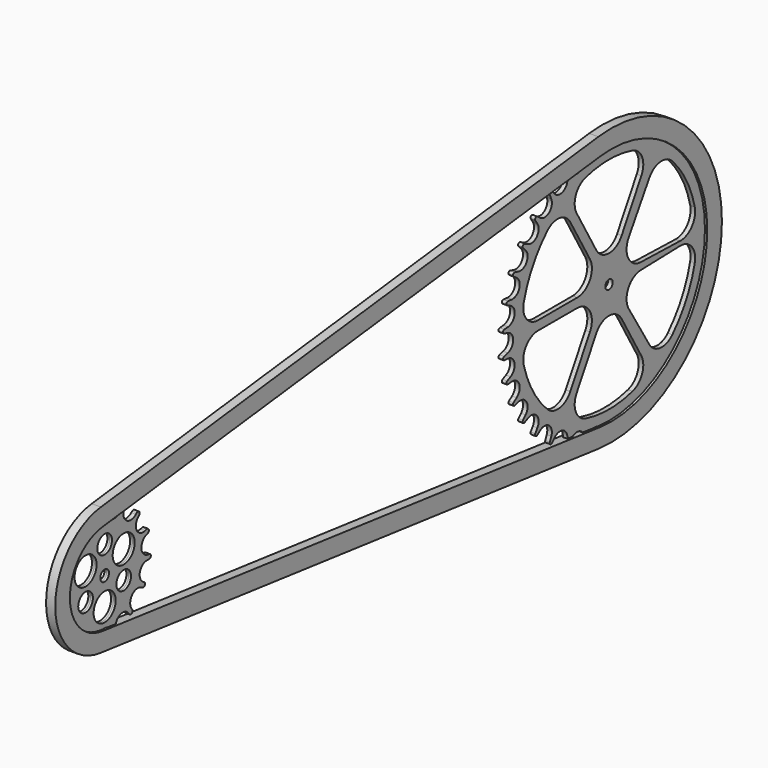
from build123d import *

# Parameters (mm, degrees)
F1_DEPTH = 1.5875
F0_R     = 9.525
F0_R_2   = 6.35
F0_R_3   = 3.7798085678
F2_DEPTH = 1.5875
F4_DEPTH = 3.175


with BuildPart() as f1:
    # F0 (on Right) → F1 (new body, symmetric)
    with BuildSketch(Plane.YZ):
        with BuildLine():
            Line((-59.3944401786, 64.7095088949), (-62.0568209724, 66.6650224888))
            ThreePointArc((-62.0568209724, 66.6650224888), (-63.616238351, 66.564103262), (-63.7876422999, 65.0108524976))
            Line((-63.7876422999, 65.0108524976), (-61.9546477539, 62.2626829427))
            ThreePointArc((-61.9546477539, 62.2626829427), (-62.4552270936, 54.561429043), (-70.0194756005, 53.0310579017))
            Line((-70.0194756005, 53.0310579017), (-72.9889291244, 54.4783487077))
            ThreePointArc((-72.9889291244, 54.4783487077), (-74.5050865883, 54.0998862981), (-74.3956518538, 52.5410433651))
            Line((-74.3956518538, 52.5410433651), (-72.1002808985, 50.1654219548))
            ThreePointArc((-72.1002808985, 50.1654219548), (-71.3143908425, 42.6012859156), (-78.3473206512, 39.7079011322))
            Line((-78.3473206512, 39.7079011322), (-81.5271176116, 40.6029967686))
            ThreePointArc((-81.5271176116, 40.6029967686), (-82.9515914308, 39.9604692678), (-82.5661826493, 38.4460626771))
            Line((-82.5661826493, 38.4460626771), (-79.8842916479, 36.5173933005))
            ThreePointArc((-79.8842916479, 36.5173933005), (-77.6463886486, 29.131482289), (-84.1902710494, 25.040333987))
            Line((-84.1902710494, 25.040333987), (-87.4789411467, 25.3517081969))
            ThreePointArc((-87.4789411467, 25.3517081969), (-88.7653740816, 24.464545554), (-88.1150761675, 23.0436022497))
            Line((-88.1150761675, 23.0436022497), (-85.1312333967, 21.6262147844))
            ThreePointArc((-85.1312333967, 21.6262147844), (-81.7371147842, 14.8207951762), (-87.3045503434, 9.6403088581))
            Line((-87.3045503434, 9.6403088581), (-90.5960809313, 9.3607890976))
            ThreePointArc((-90.5960809313, 9.3607890976), (-91.7038750102, 8.2586277983), (-90.8108244406, 6.9762752995))
            Line((-90.8108244406, 6.9762752995), (-87.6221960476, 6.1131681924))
            ThreePointArc((-87.6221960476, 6.1131681924), (-84.2435517811, 3.8494097252), (-82.9313459114, 0))
            ThreePointArc((-82.9313459114, 0), (-84.2329734447, -3.8680885355), (-87.6199646773, -6.1450675744))
            Line((-87.6199646773, -6.1450675744), (-90.8082786358, -7.0093354782))
            ThreePointArc((-90.8082786358, -7.0093354782), (-91.7008622922, -8.2920130165), (-90.5926670332, -9.3937709386))
            Line((-90.5926670332, -9.3937709386), (-87.3148507701, -9.6184291816))
            ThreePointArc((-87.3148507701, -9.6184291816), (-81.7529599019, -14.8048679569), (-85.1543562506, -21.6066530224))
            Line((-85.1543562506, -21.6066530224), (-88.1397134771, -23.020847895))
            ThreePointArc((-88.1397134771, -23.020847895), (-88.7915309857, -24.4410947702), (-87.5060477743, -25.3296329879))
            Line((-87.5060477743, -25.3296329879), (-84.2170464851, -25.0217768082))
            ThreePointArc((-84.2170464851, -25.0217768082), (-77.6775440819, -29.1199226843), (-79.9233464237, -36.5034356115))
            Line((-79.9233464237, -36.5034356115), (-82.6072989659, -38.4292350971))
            ThreePointArc((-82.6072989659, -38.4292350971), (-82.9943274699, -39.9432285541), (-81.5705417699, -40.5872794304))
            Line((-81.5705417699, -40.5872794304), (-78.3590246988, -39.7237346122))
            ThreePointArc((-78.3590246988, -39.7237346122), (-71.3235236973, -42.6108617062), (-72.1026843331, -50.1756938856))
            Line((-72.1026843331, -50.1756938856), (-74.4242306207, -52.5005537987))
            ThreePointArc((-74.4242306207, -52.5005537987), (-74.5345135707, -54.0593369529), (-73.0185622685, -54.4386243112))
            Line((-73.0185622685, -54.4386243112), (-70.0483216527, -52.9929495234))
            ThreePointArc((-70.0483216527, -52.9929495234), (-62.4849070046, -54.5274364623), (-61.9885183137, -62.2289616081))
            Line((-61.9885183137, -62.2289616081), (-63.8230079824, -64.976133347))
            ThreePointArc((-63.8230079824, -64.976133347), (-63.6524492476, -66.5294771495), (-62.0930870142, -66.6312449057))
            Line((-62.0930870142, -66.6312449057), (-59.4296425378, -64.6771803141))
            ThreePointArc((-59.4296425378, -64.6771803141), (-51.8286187703, -64.9184579242), (-49.9100193945, -72.2773133811))
            Line((-49.9100193945, -72.2773133811), (-51.225721164, -75.3073684567))
            ThreePointArc((-51.225721164, -75.3073684567), (-50.7811460125, -76.8054739889), (-49.2286004047, -76.6277962285))
            Line((-49.2286004047, -76.6277962285), (-46.9559052895, -74.2304723411))
            ThreePointArc((-46.9559052895, -74.2304723411), (-39.3356813174, -73.0089659277), (-36.1643121845, -80.044753668))
            Line((-36.1643121845, -80.044753668), (-36.8730077215, -83.2805832965))
            ThreePointArc((-36.8730077215, -83.2805832965), (-36.1666926903, -84.674529611), (-34.6712732345, -84.2210013295))
            Line((-34.6712732345, -84.2210013295), (-32.8659116239, -81.4546003531))
            ThreePointArc((-32.8659116239, -81.4546003531), (-25.6662392132, -79.0054179633), (-21.2805808977, -85.2182899512))
            Line((-21.2805808977, -85.2182899512), (-21.4457468032, -88.5175360971))
            ThreePointArc((-21.4457468032, -88.5175360971), (-20.5023851215, -89.7633434612), (-19.1116913337, -89.0506457417))
            Line((-19.1116913337, -89.0506457417), (-17.8280775114, -86.0068585509))
            ThreePointArc((-17.8280775114, -86.0068585509), (-11.1252300761, -82.1817144277), (-5.6806431311, -87.6512998144))
            Line((-5.6806431311, -87.6512998144), (-5.2524955715, -90.9268142129))
            ThreePointArc((-5.2524955715, -90.9268142129), (-4.10134446, -91.9836104892), (-2.8607080011, -91.0334586972))
            Line((-2.8607080011, -91.0334586972), (-2.1977759014, -87.8155289571))
            ThreePointArc((-2.1977759014, -87.8155289571), (3.6887866088, -83.0007434985), (9.9720138979, -87.284997463))
            Line((9.9720138979, -87.284997463), (11.0189692492, -90.4414885596))
            ThreePointArc((11.0189692492, -90.4414885596), (12.3404218337, -91.2755930601), (13.3913222458, -90.1190570362))
            Line((13.3913222458, -90.1190570362), (13.4794317718, -86.7947290142))
            ThreePointArc((13.4794317718, -86.7947290142), (18.4142273354, -80.8611226868), (25.4316669934, -84.0728873031))
            Line((25.4316669934, -84.0728873031), (26.9817685272, -86.9899903425))
            ThreePointArc((26.9817685272, -86.9899903425), (28.430511101, -87.5757481472), (29.2589414363, -86.2507310037))
            Line((29.2589414363, -86.2507310037), (28.8000304631, -82.9793848547))
            ThreePointArc((28.8000304631, -82.9793848547), (32.6137955465, -76.399949234), (40.0032960385, -78.1969076857))
            Line((40.0032960385, -78.1969076857), (42.0483117605, -80.7911735943))
            ThreePointArc((42.0483117605, -80.7911735943), (43.5782355723, -81.109450802), (44.157345916, -79.6580382278))
            Line((44.157345916, -79.6580382278), (43.1627324964, -76.4983567732))
            ThreePointArc((43.1627324964, -76.4983567732), (45.6936207194, -69.2076437692), (53.3924449957, -69.7442964186))
            Line((53.3924449957, -69.7442964186), (55.8699957794, -71.9292556909))
            ThreePointArc((55.8699957794, -71.9292556909), (57.4322026864, -71.9676852455), (57.7413227922, -70.4358849938))
            Line((57.7413227922, -70.4358849938), (56.1604866866, -67.5353226147))
            ThreePointArc((56.1604866866, -67.5353226147), (57.4147742776, -60.0346199917), (64.9639453044, -59.1160373844))
            Line((64.9639453044, -59.1160373844), (67.7911329693, -60.8246376346))
            ThreePointArc((67.7911329693, -60.8246376346), (69.3351933492, -60.5841281875), (69.3664610521, -59.021761527))
            Line((69.3664610521, -59.021761527), (67.2941493683, -56.4492473496))
            ThreePointArc((67.2941493683, -56.4492473496), (67.101322191, -48.734151175), (74.4976362705, -46.5308742198))
            Line((74.4976362705, -46.5308742198), (77.5280812788, -47.7982307818))
            ThreePointArc((77.5280812788, -47.7982307818), (79.0047506189, -47.2869432787), (78.7576516618, -45.7439237207))
            Line((78.7576516618, -45.7439237207), (76.2608541582, -43.5809842547))
            ThreePointArc((76.2608541582, -43.5809842547), (74.6989650439, -36.0231807577), (81.5855085229, -32.5395891893))
            Line((81.5855085229, -32.5395891893), (84.83263218, -33.1466253194))
            ThreePointArc((84.83263218, -33.1466253194), (86.1939125448, -32.3792381816), (85.6745675966, -30.9053833463))
            Line((85.6745675966, -30.9053833463), (82.8308880415, -29.2243742757))
            ThreePointArc((82.8308880415, -29.2243742757), (80.0650933325, -22.140296578), (86.0775344721, -17.4836530721))
            Line((86.0775344721, -17.4836530721), (89.3808586984, -17.5024669971))
            ThreePointArc((89.3808586984, -17.5024669971), (90.5836420621, -16.5048300737), (89.8100226246, -15.1470818582))
            Line((89.8100226246, -15.1470818582), (86.7123479664, -13.9995991265))
            ThreePointArc((86.7123479664, -13.9995991265), (82.593957295, -7.4728273684), (87.8169206895, -1.7912303496))
            Line((87.8169206895, -1.7912303496), (91.0702467281, -1.2183651005))
            ThreePointArc((91.0702467281, -1.2183651005), (92.0749974856, -0.021517923), (91.0708062441, 1.1757987441))
            Line((91.0708062441, 1.1757987441), (87.817748318, 1.7501845348))
            ThreePointArc((87.817748318, 1.7501845348), (82.7387374661, 7.4103458369), (86.7310974334, 13.88296811))
            Line((86.7310974334, 13.88296811), (89.8303125254, 15.02628378))
            ThreePointArc((89.8303125254, 15.02628378), (90.605757282, 16.3829903364), (89.4043167154, 17.3822439659))
            Line((89.4043167154, 17.3822439659), (86.100970174, 17.3678726575))
            ThreePointArc((86.100970174, 17.3678726575), (79.9515074636, 22.0309188376), (82.8445384631, 29.1856559355))
            Line((82.8445384631, 29.1856559355), (85.689003411, 30.8653356869))
            ThreePointArc((85.689003411, 30.8653356869), (86.2090371821, 32.3389476195), (84.8481156426, 33.1069709358))
            Line((84.8481156426, 33.1069709358), (81.6007086116, 32.5014525772))
            ThreePointArc((81.6007086116, 32.5014525772), (74.8564682788, 36.0155669083), (76.3193967133, 43.4783825696))
            Line((76.3193967133, 43.4783825696), (78.8191008691, 45.6379621677))
            ThreePointArc((78.8191008691, 45.6379621677), (79.0682747906, 47.18064801), (77.5922944101, 47.6939210049))
            Line((77.5922944101, 47.6939210049), (74.504721137, 46.5195291662))
            ThreePointArc((74.504721137, 46.5195291662), (67.1087426587, 48.723932408), (67.3027446901, 56.4389991294))
            Line((67.3027446901, 56.4389991294), (69.3754480928, 59.0111977049))
            ThreePointArc((69.3754480928, 59.0111977049), (69.3444183077, 60.5735691087), (67.8003945706, 60.8143136829))
            Line((67.8003945706, 60.8143136829), (64.9729467525, 59.1061439771))
            ThreePointArc((64.9729467525, 59.1061439771), (57.4239156951, 60.025876163), (56.1707703271, 67.5267697021))
            Line((56.1707703271, 67.5267697021), (57.7520481125, 70.4270913176))
            ThreePointArc((57.7520481125, 70.4270913176), (57.4431612732, 71.9589386244), (55.8809485322, 71.9207469635))
            Line((55.8809485322, 71.9207469635), (53.4030650513, 69.7361649983))
            ThreePointArc((53.4030650513, 69.7361649983), (45.7041591426, 69.2006847335), (43.1743811801, 76.4917830571))
            Line((43.1743811801, 76.4917830571), (44.2108849021, 79.6283360922))
            ThreePointArc((44.2108849021, 79.6283360922), (43.6327503804, 81.0801376371), (42.102612957, 80.7628889703))
            Line((42.102612957, 80.7628889703), (40.0558537394, 78.1699983801))
            ThreePointArc((40.0558537394, 78.1699983801), (32.6651469377, 76.3780078192), (28.8558056465, 82.9600057018))
            Line((28.8558056465, 82.9600057018), (29.3169156311, 86.2310426153))
            ThreePointArc((29.3169156311, 86.2310426153), (28.4893762066, 87.5566163597), (27.040240193, 86.9718325836))
            Line((27.040240193, 86.9718325836), (25.488178029, 84.0557722367))
            ThreePointArc((25.488178029, 84.0557722367), (18.4685808944, 80.8487257183), (13.5377752268, 86.78564805))
            Line((13.5377752268, 86.78564805), (13.4058408055, 90.0863901205))
            ThreePointArc((13.4058408055, 90.0863901205), (12.3543606844, 91.2423991195), (11.0333264527, 90.4076322001))
            Line((11.0333264527, 90.4076322001), (10.0283839788, 87.2608250037))
            ThreePointArc((10.0283839788, 87.2608250037), (3.7389172031, 82.9857361301), (-2.1406194061, 87.8090986977))
            Line((-2.1406194061, 87.8090986977), (-2.8585062204, 91.0335278611))
            ThreePointArc((-2.8585062204, 91.0335278611), (-4.0991196981, 91.9837096594), (-5.2502963694, 90.9269412258))
            Line((-5.2502963694, 90.9269412258), (-5.6785231521, 87.6514371836))
            ThreePointArc((-5.6785231521, 87.6514371836), (-11.1232423856, 82.181983484), (-17.8259973021, 86.0072897244))
            Line((-17.8259973021, 86.0072897244), (-19.1095375055, 89.0511079604))
            ThreePointArc((-19.1095375055, 89.0511079604), (-20.5002140553, 89.7638393157), (-21.4436058684, 88.5180547685))
            Line((-21.4436058684, 88.5180547685), (-21.2785197601, 85.2188046288))
            ThreePointArc((-21.2785197601, 85.2188046288), (-25.6643283419, 79.0060387164), (-32.8639415133, 81.4553952403))
            Line((-32.8639415133, 81.4553952403), (-34.6692362139, 84.2218398813))
            ThreePointArc((-34.6692362139, 84.2218398813), (-36.1646447, 84.6754043316), (-36.8709934457, 83.2814751009))
            Line((-36.8709934457, 83.2814751009), (-36.1207511298, 80.0644203337))
            ThreePointArc((-36.1207511298, 80.0644203337), (-39.2959482597, 73.0303593096), (-46.915506431, 74.2560120251))
            Line((-46.915506431, 74.2560120251), (-49.1868967254, 76.6545722261))
            ThreePointArc((-49.1868967254, 76.6545722261), (-50.7393454215, 76.8330947652), (-51.1847356891, 75.3352313668))
            Line((-51.1847356891, 75.3352313668), (-49.8706828942, 72.3044608113))
            ThreePointArc((-49.8706828942, 72.3044608113), (-51.7932862472, 64.9466504341), (-59.3944401786, 64.7095088949))
        make_face()
        with BuildLine():
            ThreePointArc((-20.3923824305, -73.4206424571), (-28.7489599018, -65.9903993479), (-27.9921746535, -54.8338687142))
            Line((-27.9921746535, -54.8338687142), (-10.9985226281, -25.4))
            ThreePointArc((-10.9985226281, -25.4), (0, -19.05), (10.9985226281, -25.4))
            Line((10.9985226281, -25.4), (27.9921746535, -54.8338687142))
            ThreePointArc((27.9921746535, -54.8338687142), (28.7489599018, -65.9903993479), (20.3923824305, -73.4206424571))
            ThreePointArc((20.3923824305, -73.4206424571), (0, -76.2), (-20.3923824305, -73.4206424571))
        make_face(mode=Mode.SUBTRACT)
        with BuildLine():
            ThreePointArc((-33.4914359675, -51.6588687142), (-42.7748822903, -57.8925292813), (-53.3879503147, -54.3706424571))
            ThreePointArc((-53.3879503147, -54.3706424571), (-65.9911357684, -38.1), (-73.7803327453, -19.05))
            ThreePointArc((-73.7803327453, -19.05), (-71.5238421921, -8.0978700667), (-61.483610621, -3.175))
            Line((-61.483610621, -3.175), (-27.4963065702, -3.175))
            ThreePointArc((-27.4963065702, -3.175), (-16.4977839421, -9.525), (-16.4977839421, -22.225))
            Line((-16.4977839421, -22.225), (-33.4914359675, -51.6588687142))
        make_face(mode=Mode.SUBTRACT)
        with BuildLine():
            ThreePointArc((54.8541826517, -52.8910072282), (44.3413483419, -56.7016783592), (34.8909783426, -50.7241030506))
            Line((34.8909783426, -50.7241030506), (17.0991232582, -21.7657410579))
            ThreePointArc((17.0991232582, -21.7657410579), (16.7519782752, -9.0704864185), (27.572818809, -2.4222227246))
            Line((27.572818809, -2.4222227246), (61.5474234889, -1.4932052374))
            ThreePointArc((61.5474234889, -1.4932052374), (71.7184664872, -6.1397936654), (74.2734821663, -17.0261518523))
            ThreePointArc((74.2734821663, -17.0261518523), (67.0079131008, -36.2819456738), (54.8541826517, -52.8910072282))
        make_face(mode=Mode.SUBTRACT)
        with BuildLine():
            ThreePointArc((3.175, 0), (0, -3.175), (-3.175, 0))
            ThreePointArc((-3.175, 0), (0, 3.175), (3.175, 0))
        make_face(mode=Mode.SUBTRACT)
        with BuildLine():
            ThreePointArc((-73.7803327453, 19.05), (-65.9911357684, 38.1), (-53.3879503147, 54.3706424571))
            ThreePointArc((-53.3879503147, 54.3706424571), (-42.7748822903, 57.8925292813), (-33.4914359675, 51.6588687142))
            Line((-33.4914359675, 51.6588687142), (-16.4977839421, 22.225))
            ThreePointArc((-16.4977839421, 22.225), (-16.4977839421, 9.525), (-27.4963065702, 3.175))
            Line((-27.4963065702, 3.175), (-61.483610621, 3.175))
            ThreePointArc((-61.483610621, 3.175), (-71.5238421921, 8.0978700667), (-73.7803327453, 19.05))
        make_face(mode=Mode.SUBTRACT)
        with BuildLine():
            ThreePointArc((54.8541826517, 52.8910072282), (67.0079131008, 36.2819456738), (74.2734821663, 17.0261518523))
            ThreePointArc((74.2734821663, 17.0261518523), (71.7184664872, 6.1397936654), (61.5474234889, 1.4932052374))
            Line((61.5474234889, 1.4932052374), (27.572818809, 2.4222227246))
            ThreePointArc((27.572818809, 2.4222227246), (16.7519782752, 9.0704864185), (17.0991232582, 21.7657410579))
            Line((17.0991232582, 21.7657410579), (34.8909783426, 50.7241030506))
            ThreePointArc((34.8909783426, 50.7241030506), (44.3413483419, 56.7016783592), (54.8541826517, 52.8910072282))
        make_face(mode=Mode.SUBTRACT)
        with BuildLine():
            ThreePointArc((-27.9921746535, 54.8338687142), (-28.7489599018, 65.9903993479), (-20.3923824305, 73.4206424571))
            ThreePointArc((-20.3923824305, 73.4206424571), (0, 76.2), (20.3923824305, 73.4206424571))
            ThreePointArc((20.3923824305, 73.4206424571), (28.7489599018, 65.9903993479), (27.9921746535, 54.8338687142))
            Line((27.9921746535, 54.8338687142), (10.9985226281, 25.4))
            ThreePointArc((10.9985226281, 25.4), (0, 19.05), (-10.9985226281, 25.4))
            Line((-10.9985226281, 25.4), (-27.9921746535, 54.8338687142))
        make_face(mode=Mode.SUBTRACT)
    extrude(amount=F1_DEPTH, both=True)


with BuildPart() as f1b:
    # F0 (on Right) → F1, piece 2 (new body, symmetric)
    with BuildSketch(Plane.YZ):
        with BuildLine():
            ThreePointArc((-398.9239925025, -2.4542986379), (-401.3944222988, -1.677421368), (-403.3674451637, 0))
            ThreePointArc((-403.3674451637, 0), (-404.4795287624, 5.9254738684), (-400.2570391012, 10.2287925362))
            Line((-400.2570391012, 10.2287925362), (-399.2624932597, 10.6201324913))
            ThreePointArc((-399.2624932597, 10.6201324913), (-398.3512386179, 12.5136866356), (-400.2014623097, 13.5099820786))
            Line((-400.2014623097, 13.5099820786), (-401.5093063021, 13.1498038794))
            ThreePointArc((-401.5093063021, 13.1498038794), (-408.7652630332, 16.2225876735), (-407.4442970022, 23.990853701))
            Line((-407.4442970022, 23.990853701), (-406.6883434701, 24.7455898311))
            ThreePointArc((-406.6883434701, 24.7455898311), (-406.6260487875, 26.8460782724), (-408.7215421008, 27.0036856754))
            Line((-408.7215421008, 27.0036856754), (-409.5577253642, 26.338053689))
            ThreePointArc((-409.5577253642, 26.338053689), (-417.7514729602, 25.9086375735), (-419.8750812201, 33.8340514949))
            Line((-419.8750812201, 33.8340514949), (-419.5004224207, 34.8350006321))
            ThreePointArc((-419.5004224207, 34.8350006321), (-420.2978590138, 36.7792298367), (-422.2762921178, 36.070897448))
            Line((-422.2762921178, 36.070897448), (-422.760486344, 35.1187166248))
            ThreePointArc((-422.760486344, 35.1187166248), (-429.7403454172, 31.4618770539), (-434.9049504081, 37.4131595726))
            Line((-434.9049504081, 37.4131595726), (-434.9665466043, 38.7682943084))
            ThreePointArc((-434.9665466043, 38.7682943084), (-436.4858304417, 40.2200893838), (-438.0051142791, 38.7682943083))
            Line((-438.0051142791, 38.7682943083), (-438.0699691268, 37.7014943083))
            ThreePointArc((-438.0699691268, 37.7014943083), (-443.2335380598, 31.3250177153), (-450.5442396879, 35.0500062485))
            Line((-450.5442396879, 35.0500062485), (-451.0373941902, 35.9981976997))
            ThreePointArc((-451.0373941902, 35.9981976997), (-453.0158272942, 36.7065300884), (-453.8132638873, 34.7623008839))
            Line((-453.8132638873, 34.7623008839), (-453.3183518592, 33.4992702715))
            ThreePointArc((-453.3183518592, 33.4992702715), (-455.6158486155, 25.9618690625), (-463.4796378182, 26.4635937933))
            Line((-463.4796378182, 26.4635937933), (-464.3092580858, 27.136514725))
            ThreePointArc((-464.3092580858, 27.136514725), (-466.4047513991, 26.978907322), (-466.3424567165, 24.8784188806))
            Line((-466.3424567165, 24.8784188806), (-465.5930661802, 24.1163938053))
            ThreePointArc((-465.5930661802, 24.1163938053), (-464.3095226064, 16.0124186226), (-471.9695427732, 13.072012373))
            Line((-471.9695427732, 13.072012373), (-472.9489376903, 13.5099820786))
            ThreePointArc((-472.9489376903, 13.5099820786), (-474.7991613821, 12.5136866356), (-473.8879067403, 10.6201324913))
            Line((-473.8879067403, 10.6201324913), (-472.8933608988, 10.2287925362))
            ThreePointArc((-472.8933608988, 10.2287925362), (-468.424601836, 3.3475070236), (-474.2264074975, -2.4542986379))
            Line((-474.2264074975, -2.4542986379), (-475.2805842779, -2.6303091685))
            ThreePointArc((-475.2805842779, -2.6303091685), (-476.5656178633, -4.2930241182), (-474.9629674684, -5.6522312516))
            Line((-474.9629674684, -5.6522312516), (-473.8962575734, -5.5954653403))
            ThreePointArc((-473.8962575734, -5.5954653403), (-467.2394120708, -9.811780827), (-469.8110714216, -17.260101209))
            Line((-469.8110714216, -17.260101209), (-470.9538544303, -17.9910124476))
            ThreePointArc((-470.9538544303, -17.9910124476), (-471.451503928, -20.0326483841), (-469.4345705928, -20.6224892451))
            Line((-469.4345705928, -20.6224892451), (-468.4782672683, -20.1452551907))
            ThreePointArc((-468.4782672683, -20.1452551907), (-460.3742920856, -21.4287987645), (-459.94487597, -29.6225463605))
            Line((-459.94487597, -29.6225463605), (-460.5194566033, -30.523726413))
            ThreePointArc((-460.5194566033, -30.523726413), (-460.1436738943, -32.5912659351), (-458.0612037158, -32.3097516804))
            Line((-458.0612037158, -32.3097516804), (-457.2148431337, -31.2496299852))
            ThreePointArc((-457.2148431337, -31.2496299852), (-449.6695851725, -29.410470629), (-445.9875838965, -36.248327855))
            Line((-445.9875838965, -36.248327855), (-446.2090820792, -37.5866562148))
            ThreePointArc((-446.2090820792, -37.5866562148), (-445.0248434076, -39.3226029561), (-443.2369143984, -38.2184099577))
            Line((-443.2369143984, -38.2184099577), (-442.951676593, -37.1884061783))
            ThreePointArc((-442.951676593, -37.1884061783), (-436.5752, -32.0248372452), (-430.198723407, -37.1884061783))
            Line((-430.198723407, -37.1884061783), (-429.9134856016, -38.2184099577))
            ThreePointArc((-429.9134856016, -38.2184099577), (-429.207855952, -39.1487916859), (-428.0506077372, -39.3046760403))
            ThreePointArc((-428.0506077372, -39.3046760403), (-427.1640939323, -38.6599470003), (-426.9413179208, -37.5866562148))
            Line((-426.9413179208, -37.5866562148), (-427.1628161035, -36.248327855))
            ThreePointArc((-427.1628161035, -36.248327855), (-423.3484113339, -29.353313382), (-415.7607792297, -31.479047933))
            Line((-415.7607792297, -31.479047933), (-415.0891962842, -32.3097516804))
            ThreePointArc((-415.0891962842, -32.3097516804), (-413.0067261057, -32.5912659351), (-412.6309433967, -30.523726413))
            Line((-412.6309433967, -30.523726413), (-413.20552403, -29.6225463605))
            ThreePointArc((-413.20552403, -29.6225463605), (-412.7761079144, -21.4287987645), (-404.6721327317, -20.1452551907))
            Line((-404.6721327317, -20.1452551907), (-403.7158294072, -20.6224892451))
            ThreePointArc((-403.7158294072, -20.6224892451), (-401.698896072, -20.0326483841), (-402.1965455697, -17.9910124476))
            Line((-402.1965455697, -17.9910124476), (-403.0928981684, -17.4099406899))
            ThreePointArc((-403.0928981684, -17.4099406899), (-406.0001112468, -10.0860741942), (-399.5415822533, -5.571839866))
            Line((-399.5415822533, -5.571839866), (-398.1874325316, -5.6522312516))
            ThreePointArc((-398.1874325316, -5.6522312516), (-396.5847821367, -4.2930241182), (-397.8698157221, -2.6303091685))
            Line((-397.8698157221, -2.6303091685), (-398.9239925025, -2.4542986379))
        make_face()
        with Locations((-436.5752, -19.05)):
            Circle(F0_R, mode=Mode.SUBTRACT)
        with Locations((-453.0729839421, -9.525)):
            Circle(F0_R_2, mode=Mode.SUBTRACT)
        with Locations((-420.0774160579, -9.525)):
            Circle(F0_R_2, mode=Mode.SUBTRACT)
        with Locations((-436.5752, 0)):
            Circle(F0_R_3, mode=Mode.SUBTRACT)
        with Locations((-453.0729839421, 9.525)):
            Circle(F0_R, mode=Mode.SUBTRACT)
        with BuildLine():
            ThreePointArc((-410.5524160579, 9.525), (-413.3422239671, 2.7898079092), (-420.0774160579, 0))
            ThreePointArc((-420.0774160579, 0), (-426.8126081487, 16.2601920908), (-410.5524160579, 9.525))
        make_face(mode=Mode.SUBTRACT)
        with Locations((-436.5752, 19.05)):
            Circle(F0_R_2, mode=Mode.SUBTRACT)
    extrude(amount=F1_DEPTH, both=True)


with BuildPart() as f2:
    # F0 (on Right) → F2 (new body, symmetric)
    with BuildSketch(Plane.YZ):
        with BuildLine():
            Line((-59.3944401786, 64.7095088949), (-62.0568209724, 66.6650224888))
            ThreePointArc((-62.0568209724, 66.6650224888), (-63.616238351, 66.564103262), (-63.7876422999, 65.0108524976))
            Line((-63.7876422999, 65.0108524976), (-61.9546477539, 62.2626829427))
            ThreePointArc((-61.9546477539, 62.2626829427), (-62.4552270936, 54.561429043), (-70.0194756005, 53.0310579017))
            Line((-70.0194756005, 53.0310579017), (-72.9889291244, 54.4783487077))
            ThreePointArc((-72.9889291244, 54.4783487077), (-74.5050865883, 54.0998862981), (-74.3956518538, 52.5410433651))
            Line((-74.3956518538, 52.5410433651), (-72.1002808985, 50.1654219548))
            ThreePointArc((-72.1002808985, 50.1654219548), (-71.3143908425, 42.6012859156), (-78.3473206512, 39.7079011322))
            Line((-78.3473206512, 39.7079011322), (-81.5271176116, 40.6029967686))
            ThreePointArc((-81.5271176116, 40.6029967686), (-82.9515914308, 39.9604692678), (-82.5661826493, 38.4460626771))
            Line((-82.5661826493, 38.4460626771), (-79.8842916479, 36.5173933005))
            ThreePointArc((-79.8842916479, 36.5173933005), (-77.6463886486, 29.131482289), (-84.1902710494, 25.040333987))
            Line((-84.1902710494, 25.040333987), (-87.4789411467, 25.3517081969))
            ThreePointArc((-87.4789411467, 25.3517081969), (-88.7653740816, 24.464545554), (-88.1150761675, 23.0436022497))
            Line((-88.1150761675, 23.0436022497), (-85.1312333967, 21.6262147844))
            ThreePointArc((-85.1312333967, 21.6262147844), (-81.7371147842, 14.8207951762), (-87.3045503434, 9.6403088581))
            Line((-87.3045503434, 9.6403088581), (-90.5960809313, 9.3607890976))
            ThreePointArc((-90.5960809313, 9.3607890976), (-91.7038750102, 8.2586277983), (-90.8108244406, 6.9762752995))
            Line((-90.8108244406, 6.9762752995), (-87.6221960476, 6.1131681924))
            ThreePointArc((-87.6221960476, 6.1131681924), (-84.2435517811, 3.8494097252), (-82.9313459114, 0))
            ThreePointArc((-82.9313459114, 0), (-84.2329734447, -3.8680885355), (-87.6199646773, -6.1450675744))
            Line((-87.6199646773, -6.1450675744), (-90.8082786358, -7.0093354782))
            ThreePointArc((-90.8082786358, -7.0093354782), (-91.7008622922, -8.2920130165), (-90.5926670332, -9.3937709386))
            Line((-90.5926670332, -9.3937709386), (-87.3148507701, -9.6184291816))
            ThreePointArc((-87.3148507701, -9.6184291816), (-81.7529599019, -14.8048679569), (-85.1543562506, -21.6066530224))
            Line((-85.1543562506, -21.6066530224), (-88.1397134771, -23.020847895))
            ThreePointArc((-88.1397134771, -23.020847895), (-88.7915309857, -24.4410947702), (-87.5060477743, -25.3296329879))
            Line((-87.5060477743, -25.3296329879), (-84.2170464851, -25.0217768082))
            ThreePointArc((-84.2170464851, -25.0217768082), (-77.6775440819, -29.1199226843), (-79.9233464237, -36.5034356115))
            Line((-79.9233464237, -36.5034356115), (-82.6072989659, -38.4292350971))
            ThreePointArc((-82.6072989659, -38.4292350971), (-82.9943274699, -39.9432285541), (-81.5705417699, -40.5872794304))
            Line((-81.5705417699, -40.5872794304), (-78.3590246988, -39.7237346122))
            ThreePointArc((-78.3590246988, -39.7237346122), (-71.3235236973, -42.6108617062), (-72.1026843331, -50.1756938856))
            Line((-72.1026843331, -50.1756938856), (-74.4242306207, -52.5005537987))
            ThreePointArc((-74.4242306207, -52.5005537987), (-74.5345135707, -54.0593369529), (-73.0185622685, -54.4386243112))
            Line((-73.0185622685, -54.4386243112), (-70.0483216527, -52.9929495234))
            ThreePointArc((-70.0483216527, -52.9929495234), (-62.4849070046, -54.5274364623), (-61.9885183137, -62.2289616081))
            Line((-61.9885183137, -62.2289616081), (-63.8230079824, -64.976133347))
            ThreePointArc((-63.8230079824, -64.976133347), (-63.6524492476, -66.5294771495), (-62.0930870142, -66.6312449057))
            Line((-62.0930870142, -66.6312449057), (-59.4296425378, -64.6771803141))
            ThreePointArc((-59.4296425378, -64.6771803141), (-51.8286187703, -64.9184579242), (-49.9100193945, -72.2773133811))
            Line((-49.9100193945, -72.2773133811), (-51.225721164, -75.3073684567))
            ThreePointArc((-51.225721164, -75.3073684567), (-50.7811460125, -76.8054739889), (-49.2286004047, -76.6277962285))
            Line((-49.2286004047, -76.6277962285), (-46.9559052895, -74.2304723411))
            ThreePointArc((-46.9559052895, -74.2304723411), (-39.3356813174, -73.0089659277), (-36.1643121845, -80.044753668))
            Line((-36.1643121845, -80.044753668), (-36.8730077215, -83.2805832965))
            ThreePointArc((-36.8730077215, -83.2805832965), (-36.1666926903, -84.674529611), (-34.6712732345, -84.2210013295))
            Line((-34.6712732345, -84.2210013295), (-32.8659116239, -81.4546003531))
            ThreePointArc((-32.8659116239, -81.4546003531), (-25.6662392132, -79.0054179633), (-21.2805808977, -85.2182899512))
            Line((-21.2805808977, -85.2182899512), (-21.4457468032, -88.5175360971))
            ThreePointArc((-21.4457468032, -88.5175360971), (-20.5023851215, -89.7633434612), (-19.1116913337, -89.0506457417))
            Line((-19.1116913337, -89.0506457417), (-17.8280775114, -86.0068585509))
            ThreePointArc((-17.8280775114, -86.0068585509), (-11.1252300761, -82.1817144277), (-5.6806431311, -87.6512998144))
            Line((-5.6806431311, -87.6512998144), (-5.2524955715, -90.9268142129))
            ThreePointArc((-5.2524955715, -90.9268142129), (-4.10134446, -91.9836104892), (-2.8607080011, -91.0334586972))
            Line((-2.8607080011, -91.0334586972), (-2.1977759014, -87.8155289571))
            ThreePointArc((-2.1977759014, -87.8155289571), (3.6887866088, -83.0007434985), (9.9720138979, -87.284997463))
            Line((9.9720138979, -87.284997463), (11.0189692492, -90.4414885596))
            ThreePointArc((11.0189692492, -90.4414885596), (12.3404218337, -91.2755930601), (13.3913222458, -90.1190570362))
            Line((13.3913222458, -90.1190570362), (13.4794317718, -86.7947290142))
            ThreePointArc((13.4794317718, -86.7947290142), (18.4142273354, -80.8611226868), (25.4316669934, -84.0728873031))
            Line((25.4316669934, -84.0728873031), (26.9817685272, -86.9899903425))
            ThreePointArc((26.9817685272, -86.9899903425), (28.430511101, -87.5757481472), (29.2589414363, -86.2507310037))
            Line((29.2589414363, -86.2507310037), (28.8000304631, -82.9793848547))
            ThreePointArc((28.8000304631, -82.9793848547), (32.6137955465, -76.399949234), (40.0032960385, -78.1969076857))
            Line((40.0032960385, -78.1969076857), (42.0483117605, -80.7911735943))
            ThreePointArc((42.0483117605, -80.7911735943), (43.5782355723, -81.109450802), (44.157345916, -79.6580382278))
            Line((44.157345916, -79.6580382278), (43.1627324964, -76.4983567732))
            ThreePointArc((43.1627324964, -76.4983567732), (45.6936207194, -69.2076437692), (53.3924449957, -69.7442964186))
            Line((53.3924449957, -69.7442964186), (55.8699957794, -71.9292556909))
            ThreePointArc((55.8699957794, -71.9292556909), (57.4322026864, -71.9676852455), (57.7413227922, -70.4358849938))
            Line((57.7413227922, -70.4358849938), (56.1604866866, -67.5353226147))
            ThreePointArc((56.1604866866, -67.5353226147), (57.4147742776, -60.0346199917), (64.9639453044, -59.1160373844))
            Line((64.9639453044, -59.1160373844), (67.7911329693, -60.8246376346))
            ThreePointArc((67.7911329693, -60.8246376346), (69.3351933492, -60.5841281875), (69.3664610521, -59.021761527))
            Line((69.3664610521, -59.021761527), (67.2941493683, -56.4492473496))
            ThreePointArc((67.2941493683, -56.4492473496), (67.101322191, -48.734151175), (74.4976362705, -46.5308742198))
            Line((74.4976362705, -46.5308742198), (77.5280812788, -47.7982307818))
            ThreePointArc((77.5280812788, -47.7982307818), (79.0047506189, -47.2869432787), (78.7576516618, -45.7439237207))
            Line((78.7576516618, -45.7439237207), (76.2608541582, -43.5809842547))
            ThreePointArc((76.2608541582, -43.5809842547), (74.6989650439, -36.0231807577), (81.5855085229, -32.5395891893))
            Line((81.5855085229, -32.5395891893), (84.83263218, -33.1466253194))
            ThreePointArc((84.83263218, -33.1466253194), (86.1939125448, -32.3792381816), (85.6745675966, -30.9053833463))
            Line((85.6745675966, -30.9053833463), (82.8308880415, -29.2243742757))
            ThreePointArc((82.8308880415, -29.2243742757), (80.0650933325, -22.140296578), (86.0775344721, -17.4836530721))
            Line((86.0775344721, -17.4836530721), (89.3808586984, -17.5024669971))
            ThreePointArc((89.3808586984, -17.5024669971), (90.5836420621, -16.5048300737), (89.8100226246, -15.1470818582))
            Line((89.8100226246, -15.1470818582), (86.7123479664, -13.9995991265))
            ThreePointArc((86.7123479664, -13.9995991265), (82.593957295, -7.4728273684), (87.8169206895, -1.7912303496))
            Line((87.8169206895, -1.7912303496), (91.0702467281, -1.2183651005))
            ThreePointArc((91.0702467281, -1.2183651005), (92.0749974856, -0.021517923), (91.0708062441, 1.1757987441))
            Line((91.0708062441, 1.1757987441), (87.817748318, 1.7501845348))
            ThreePointArc((87.817748318, 1.7501845348), (82.7387374661, 7.4103458369), (86.7310974334, 13.88296811))
            Line((86.7310974334, 13.88296811), (89.8303125254, 15.02628378))
            ThreePointArc((89.8303125254, 15.02628378), (90.605757282, 16.3829903364), (89.4043167154, 17.3822439659))
            Line((89.4043167154, 17.3822439659), (86.100970174, 17.3678726575))
            ThreePointArc((86.100970174, 17.3678726575), (79.9515074636, 22.0309188376), (82.8445384631, 29.1856559355))
            Line((82.8445384631, 29.1856559355), (85.689003411, 30.8653356869))
            ThreePointArc((85.689003411, 30.8653356869), (86.2090371821, 32.3389476195), (84.8481156426, 33.1069709358))
            Line((84.8481156426, 33.1069709358), (81.6007086116, 32.5014525772))
            ThreePointArc((81.6007086116, 32.5014525772), (74.8564682788, 36.0155669083), (76.3193967133, 43.4783825696))
            Line((76.3193967133, 43.4783825696), (78.8191008691, 45.6379621677))
            ThreePointArc((78.8191008691, 45.6379621677), (79.0682747906, 47.18064801), (77.5922944101, 47.6939210049))
            Line((77.5922944101, 47.6939210049), (74.504721137, 46.5195291662))
            ThreePointArc((74.504721137, 46.5195291662), (67.1087426587, 48.723932408), (67.3027446901, 56.4389991294))
            Line((67.3027446901, 56.4389991294), (69.3754480928, 59.0111977049))
            ThreePointArc((69.3754480928, 59.0111977049), (69.3444183077, 60.5735691087), (67.8003945706, 60.8143136829))
            Line((67.8003945706, 60.8143136829), (64.9729467525, 59.1061439771))
            ThreePointArc((64.9729467525, 59.1061439771), (57.4239156951, 60.025876163), (56.1707703271, 67.5267697021))
            Line((56.1707703271, 67.5267697021), (57.7520481125, 70.4270913176))
            ThreePointArc((57.7520481125, 70.4270913176), (57.4431612732, 71.9589386244), (55.8809485322, 71.9207469635))
            Line((55.8809485322, 71.9207469635), (53.4030650513, 69.7361649983))
            ThreePointArc((53.4030650513, 69.7361649983), (45.7041591426, 69.2006847335), (43.1743811801, 76.4917830571))
            Line((43.1743811801, 76.4917830571), (44.2108849021, 79.6283360922))
            ThreePointArc((44.2108849021, 79.6283360922), (43.6327503804, 81.0801376371), (42.102612957, 80.7628889703))
            Line((42.102612957, 80.7628889703), (40.0558537394, 78.1699983801))
            ThreePointArc((40.0558537394, 78.1699983801), (32.6651469377, 76.3780078192), (28.8558056465, 82.9600057018))
            Line((28.8558056465, 82.9600057018), (29.3169156311, 86.2310426153))
            ThreePointArc((29.3169156311, 86.2310426153), (28.4893762066, 87.5566163597), (27.040240193, 86.9718325836))
            Line((27.040240193, 86.9718325836), (25.488178029, 84.0557722367))
            ThreePointArc((25.488178029, 84.0557722367), (18.4685808944, 80.8487257183), (13.5377752268, 86.78564805))
            Line((13.5377752268, 86.78564805), (13.4058408055, 90.0863901205))
            ThreePointArc((13.4058408055, 90.0863901205), (12.3543606844, 91.2423991195), (11.0333264527, 90.4076322001))
            Line((11.0333264527, 90.4076322001), (10.0283839788, 87.2608250037))
            ThreePointArc((10.0283839788, 87.2608250037), (3.7389172031, 82.9857361301), (-2.1406194061, 87.8090986977))
            Line((-2.1406194061, 87.8090986977), (-2.8585062204, 91.0335278611))
            ThreePointArc((-2.8585062204, 91.0335278611), (-4.0991196981, 91.9837096594), (-5.2502963694, 90.9269412258))
            Line((-5.2502963694, 90.9269412258), (-5.6785231521, 87.6514371836))
            ThreePointArc((-5.6785231521, 87.6514371836), (-11.1232423856, 82.181983484), (-17.8259973021, 86.0072897244))
            Line((-17.8259973021, 86.0072897244), (-19.1095375055, 89.0511079604))
            ThreePointArc((-19.1095375055, 89.0511079604), (-20.5002140553, 89.7638393157), (-21.4436058684, 88.5180547685))
            Line((-21.4436058684, 88.5180547685), (-21.2785197601, 85.2188046288))
            ThreePointArc((-21.2785197601, 85.2188046288), (-25.6643283419, 79.0060387164), (-32.8639415133, 81.4553952403))
            Line((-32.8639415133, 81.4553952403), (-34.6692362139, 84.2218398813))
            ThreePointArc((-34.6692362139, 84.2218398813), (-36.1646447, 84.6754043316), (-36.8709934457, 83.2814751009))
            Line((-36.8709934457, 83.2814751009), (-36.1207511298, 80.0644203337))
            ThreePointArc((-36.1207511298, 80.0644203337), (-39.2959482597, 73.0303593096), (-46.915506431, 74.2560120251))
            Line((-46.915506431, 74.2560120251), (-49.1868967254, 76.6545722261))
            ThreePointArc((-49.1868967254, 76.6545722261), (-50.7393454215, 76.8330947652), (-51.1847356891, 75.3352313668))
            Line((-51.1847356891, 75.3352313668), (-49.8706828942, 72.3044608113))
            ThreePointArc((-49.8706828942, 72.3044608113), (-51.7932862472, 64.9466504341), (-59.3944401786, 64.7095088949))
        make_face()
        with BuildLine():
            ThreePointArc((-20.3923824305, -73.4206424571), (-28.7489599018, -65.9903993479), (-27.9921746535, -54.8338687142))
            Line((-27.9921746535, -54.8338687142), (-10.9985226281, -25.4))
            ThreePointArc((-10.9985226281, -25.4), (0, -19.05), (10.9985226281, -25.4))
            Line((10.9985226281, -25.4), (27.9921746535, -54.8338687142))
            ThreePointArc((27.9921746535, -54.8338687142), (28.7489599018, -65.9903993479), (20.3923824305, -73.4206424571))
            ThreePointArc((20.3923824305, -73.4206424571), (0, -76.2), (-20.3923824305, -73.4206424571))
        make_face(mode=Mode.SUBTRACT)
        with BuildLine():
            ThreePointArc((-33.4914359675, -51.6588687142), (-42.7748822903, -57.8925292813), (-53.3879503147, -54.3706424571))
            ThreePointArc((-53.3879503147, -54.3706424571), (-65.9911357684, -38.1), (-73.7803327453, -19.05))
            ThreePointArc((-73.7803327453, -19.05), (-71.5238421921, -8.0978700667), (-61.483610621, -3.175))
            Line((-61.483610621, -3.175), (-27.4963065702, -3.175))
            ThreePointArc((-27.4963065702, -3.175), (-16.4977839421, -9.525), (-16.4977839421, -22.225))
            Line((-16.4977839421, -22.225), (-33.4914359675, -51.6588687142))
        make_face(mode=Mode.SUBTRACT)
        with BuildLine():
            ThreePointArc((54.8541826517, -52.8910072282), (44.3413483419, -56.7016783592), (34.8909783426, -50.7241030506))
            Line((34.8909783426, -50.7241030506), (17.0991232582, -21.7657410579))
            ThreePointArc((17.0991232582, -21.7657410579), (16.7519782752, -9.0704864185), (27.572818809, -2.4222227246))
            Line((27.572818809, -2.4222227246), (61.5474234889, -1.4932052374))
            ThreePointArc((61.5474234889, -1.4932052374), (71.7184664872, -6.1397936654), (74.2734821663, -17.0261518523))
            ThreePointArc((74.2734821663, -17.0261518523), (67.0079131008, -36.2819456738), (54.8541826517, -52.8910072282))
        make_face(mode=Mode.SUBTRACT)
        with BuildLine():
            ThreePointArc((3.175, 0), (0, -3.175), (-3.175, 0))
            ThreePointArc((-3.175, 0), (0, 3.175), (3.175, 0))
        make_face(mode=Mode.SUBTRACT)
        with BuildLine():
            ThreePointArc((-73.7803327453, 19.05), (-65.9911357684, 38.1), (-53.3879503147, 54.3706424571))
            ThreePointArc((-53.3879503147, 54.3706424571), (-42.7748822903, 57.8925292813), (-33.4914359675, 51.6588687142))
            Line((-33.4914359675, 51.6588687142), (-16.4977839421, 22.225))
            ThreePointArc((-16.4977839421, 22.225), (-16.4977839421, 9.525), (-27.4963065702, 3.175))
            Line((-27.4963065702, 3.175), (-61.483610621, 3.175))
            ThreePointArc((-61.483610621, 3.175), (-71.5238421921, 8.0978700667), (-73.7803327453, 19.05))
        make_face(mode=Mode.SUBTRACT)
        with BuildLine():
            ThreePointArc((54.8541826517, 52.8910072282), (67.0079131008, 36.2819456738), (74.2734821663, 17.0261518523))
            ThreePointArc((74.2734821663, 17.0261518523), (71.7184664872, 6.1397936654), (61.5474234889, 1.4932052374))
            Line((61.5474234889, 1.4932052374), (27.572818809, 2.4222227246))
            ThreePointArc((27.572818809, 2.4222227246), (16.7519782752, 9.0704864185), (17.0991232582, 21.7657410579))
            Line((17.0991232582, 21.7657410579), (34.8909783426, 50.7241030506))
            ThreePointArc((34.8909783426, 50.7241030506), (44.3413483419, 56.7016783592), (54.8541826517, 52.8910072282))
        make_face(mode=Mode.SUBTRACT)
        with BuildLine():
            ThreePointArc((-27.9921746535, 54.8338687142), (-28.7489599018, 65.9903993479), (-20.3923824305, 73.4206424571))
            ThreePointArc((-20.3923824305, 73.4206424571), (0, 76.2), (20.3923824305, 73.4206424571))
            ThreePointArc((20.3923824305, 73.4206424571), (28.7489599018, 65.9903993479), (27.9921746535, 54.8338687142))
            Line((27.9921746535, 54.8338687142), (10.9985226281, 25.4))
            ThreePointArc((10.9985226281, 25.4), (0, 19.05), (-10.9985226281, 25.4))
            Line((-10.9985226281, 25.4), (-27.9921746535, 54.8338687142))
        make_face(mode=Mode.SUBTRACT)
    extrude(amount=F2_DEPTH, both=True)


with BuildPart() as f2b:
    # F0 (on Right) → F2, piece 2 (new body, symmetric)
    with BuildSketch(Plane.YZ):
        with BuildLine():
            ThreePointArc((-398.9239925025, -2.4542986379), (-401.3944222988, -1.677421368), (-403.3674451637, 0))
            ThreePointArc((-403.3674451637, 0), (-404.4795287624, 5.9254738684), (-400.2570391012, 10.2287925362))
            Line((-400.2570391012, 10.2287925362), (-399.2624932597, 10.6201324913))
            ThreePointArc((-399.2624932597, 10.6201324913), (-398.3512386179, 12.5136866356), (-400.2014623097, 13.5099820786))
            Line((-400.2014623097, 13.5099820786), (-401.5093063021, 13.1498038794))
            ThreePointArc((-401.5093063021, 13.1498038794), (-408.7652630332, 16.2225876735), (-407.4442970022, 23.990853701))
            Line((-407.4442970022, 23.990853701), (-406.6883434701, 24.7455898311))
            ThreePointArc((-406.6883434701, 24.7455898311), (-406.6260487875, 26.8460782724), (-408.7215421008, 27.0036856754))
            Line((-408.7215421008, 27.0036856754), (-409.5577253642, 26.338053689))
            ThreePointArc((-409.5577253642, 26.338053689), (-417.7514729602, 25.9086375735), (-419.8750812201, 33.8340514949))
            Line((-419.8750812201, 33.8340514949), (-419.5004224207, 34.8350006321))
            ThreePointArc((-419.5004224207, 34.8350006321), (-420.2978590138, 36.7792298367), (-422.2762921178, 36.070897448))
            Line((-422.2762921178, 36.070897448), (-422.760486344, 35.1187166248))
            ThreePointArc((-422.760486344, 35.1187166248), (-429.7403454172, 31.4618770539), (-434.9049504081, 37.4131595726))
            Line((-434.9049504081, 37.4131595726), (-434.9665466043, 38.7682943084))
            ThreePointArc((-434.9665466043, 38.7682943084), (-436.4858304417, 40.2200893838), (-438.0051142791, 38.7682943083))
            Line((-438.0051142791, 38.7682943083), (-438.0699691268, 37.7014943083))
            ThreePointArc((-438.0699691268, 37.7014943083), (-443.2335380598, 31.3250177153), (-450.5442396879, 35.0500062485))
            Line((-450.5442396879, 35.0500062485), (-451.0373941902, 35.9981976997))
            ThreePointArc((-451.0373941902, 35.9981976997), (-453.0158272942, 36.7065300884), (-453.8132638873, 34.7623008839))
            Line((-453.8132638873, 34.7623008839), (-453.3183518592, 33.4992702715))
            ThreePointArc((-453.3183518592, 33.4992702715), (-455.6158486155, 25.9618690625), (-463.4796378182, 26.4635937933))
            Line((-463.4796378182, 26.4635937933), (-464.3092580858, 27.136514725))
            ThreePointArc((-464.3092580858, 27.136514725), (-466.4047513991, 26.978907322), (-466.3424567165, 24.8784188806))
            Line((-466.3424567165, 24.8784188806), (-465.5930661802, 24.1163938053))
            ThreePointArc((-465.5930661802, 24.1163938053), (-464.3095226064, 16.0124186226), (-471.9695427732, 13.072012373))
            Line((-471.9695427732, 13.072012373), (-472.9489376903, 13.5099820786))
            ThreePointArc((-472.9489376903, 13.5099820786), (-474.7991613821, 12.5136866356), (-473.8879067403, 10.6201324913))
            Line((-473.8879067403, 10.6201324913), (-472.8933608988, 10.2287925362))
            ThreePointArc((-472.8933608988, 10.2287925362), (-468.424601836, 3.3475070236), (-474.2264074975, -2.4542986379))
            Line((-474.2264074975, -2.4542986379), (-475.2805842779, -2.6303091685))
            ThreePointArc((-475.2805842779, -2.6303091685), (-476.5656178633, -4.2930241182), (-474.9629674684, -5.6522312516))
            Line((-474.9629674684, -5.6522312516), (-473.8962575734, -5.5954653403))
            ThreePointArc((-473.8962575734, -5.5954653403), (-467.2394120708, -9.811780827), (-469.8110714216, -17.260101209))
            Line((-469.8110714216, -17.260101209), (-470.9538544303, -17.9910124476))
            ThreePointArc((-470.9538544303, -17.9910124476), (-471.451503928, -20.0326483841), (-469.4345705928, -20.6224892451))
            Line((-469.4345705928, -20.6224892451), (-468.4782672683, -20.1452551907))
            ThreePointArc((-468.4782672683, -20.1452551907), (-460.3742920856, -21.4287987645), (-459.94487597, -29.6225463605))
            Line((-459.94487597, -29.6225463605), (-460.5194566033, -30.523726413))
            ThreePointArc((-460.5194566033, -30.523726413), (-460.1436738943, -32.5912659351), (-458.0612037158, -32.3097516804))
            Line((-458.0612037158, -32.3097516804), (-457.2148431337, -31.2496299852))
            ThreePointArc((-457.2148431337, -31.2496299852), (-449.6695851725, -29.410470629), (-445.9875838965, -36.248327855))
            Line((-445.9875838965, -36.248327855), (-446.2090820792, -37.5866562148))
            ThreePointArc((-446.2090820792, -37.5866562148), (-445.0248434076, -39.3226029561), (-443.2369143984, -38.2184099577))
            Line((-443.2369143984, -38.2184099577), (-442.951676593, -37.1884061783))
            ThreePointArc((-442.951676593, -37.1884061783), (-436.5752, -32.0248372452), (-430.198723407, -37.1884061783))
            Line((-430.198723407, -37.1884061783), (-429.9134856016, -38.2184099577))
            ThreePointArc((-429.9134856016, -38.2184099577), (-429.207855952, -39.1487916859), (-428.0506077372, -39.3046760403))
            ThreePointArc((-428.0506077372, -39.3046760403), (-427.1640939323, -38.6599470003), (-426.9413179208, -37.5866562148))
            Line((-426.9413179208, -37.5866562148), (-427.1628161035, -36.248327855))
            ThreePointArc((-427.1628161035, -36.248327855), (-423.3484113339, -29.353313382), (-415.7607792297, -31.479047933))
            Line((-415.7607792297, -31.479047933), (-415.0891962842, -32.3097516804))
            ThreePointArc((-415.0891962842, -32.3097516804), (-413.0067261057, -32.5912659351), (-412.6309433967, -30.523726413))
            Line((-412.6309433967, -30.523726413), (-413.20552403, -29.6225463605))
            ThreePointArc((-413.20552403, -29.6225463605), (-412.7761079144, -21.4287987645), (-404.6721327317, -20.1452551907))
            Line((-404.6721327317, -20.1452551907), (-403.7158294072, -20.6224892451))
            ThreePointArc((-403.7158294072, -20.6224892451), (-401.698896072, -20.0326483841), (-402.1965455697, -17.9910124476))
            Line((-402.1965455697, -17.9910124476), (-403.0928981684, -17.4099406899))
            ThreePointArc((-403.0928981684, -17.4099406899), (-406.0001112468, -10.0860741942), (-399.5415822533, -5.571839866))
            Line((-399.5415822533, -5.571839866), (-398.1874325316, -5.6522312516))
            ThreePointArc((-398.1874325316, -5.6522312516), (-396.5847821367, -4.2930241182), (-397.8698157221, -2.6303091685))
            Line((-397.8698157221, -2.6303091685), (-398.9239925025, -2.4542986379))
        make_face()
        with Locations((-436.5752, -19.05)):
            Circle(F0_R, mode=Mode.SUBTRACT)
        with Locations((-453.0729839421, -9.525)):
            Circle(F0_R_2, mode=Mode.SUBTRACT)
        with Locations((-420.0774160579, -9.525)):
            Circle(F0_R_2, mode=Mode.SUBTRACT)
        with Locations((-436.5752, 0)):
            Circle(F0_R_3, mode=Mode.SUBTRACT)
        with Locations((-453.0729839421, 9.525)):
            Circle(F0_R, mode=Mode.SUBTRACT)
        with BuildLine():
            ThreePointArc((-410.5524160579, 9.525), (-413.3422239671, 2.7898079092), (-420.0774160579, 0))
            ThreePointArc((-420.0774160579, 0), (-426.8126081487, 16.2601920908), (-410.5524160579, 9.525))
        make_face(mode=Mode.SUBTRACT)
        with Locations((-436.5752, 19.05)):
            Circle(F0_R_2, mode=Mode.SUBTRACT)
    extrude(amount=F2_DEPTH, both=True)


with BuildPart() as f4:
    # F3 (on Right) → F4 (new body, symmetric)
    with BuildSketch(Plane.YZ):
        with BuildLine():
            Line((-441.8052526216, -44.4225818018), (-11.1988252232, -95.119641341))
            ThreePointArc((-11.1988252232, -95.119641341), (95.7766143441, 0), (-11.1988252232, 95.119641341))
            Line((-11.1988252232, 95.119641341), (-441.8052526216, 44.4225818018))
            ThreePointArc((-441.8052526216, 44.4225818018), (-481.3046, 0), (-441.8052526216, -44.4225818018))
        make_face()
        with BuildLine():
            ThreePointArc((-9.7138585504, 82.5067561048), (83.0766143441, -8.90585e-05), (-9.7140354455, -82.5067352781))
            Line((-9.7140354455, -82.5067352781), (-440.0778943848, -31.837298824))
            ThreePointArc((-440.0778943848, -31.837298824), (-440.320354149, -31.809688536), (-440.5625965196, -31.7802318015))
            ThreePointArc((-440.5625965196, -31.7802318015), (-468.6043674683, 0.1220477212), (-440.3202859488, 31.8096965656))
            Line((-440.3202859488, 31.8096965656), (-9.7138585504, 82.5067561048))
        make_face(mode=Mode.SUBTRACT)
    extrude(amount=F4_DEPTH, both=True)


solid = Compound([f1.part, f1b.part, f2.part, f2b.part, f4.part])
